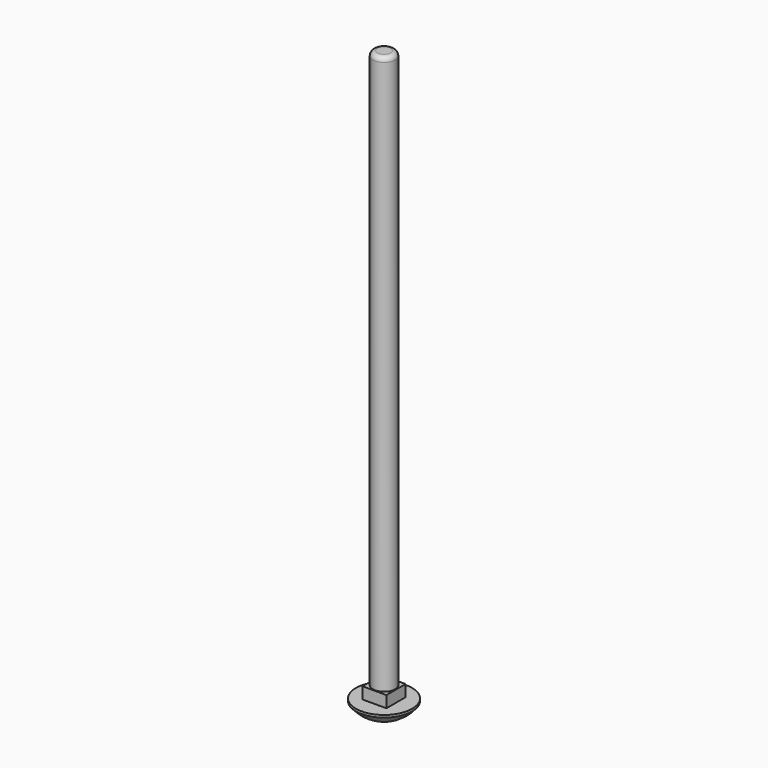
from build123d import *

# Parameters (mm, degrees)
F0_R     = 3.048
F1_DEPTH = 152.4
F2_W     = 6.5278
F2_H     = 6.5278
F3_DEPTH = 3.175
F4_R     = 7.6835
F5_DEPTH = 0.635
F8_R     = 1.27


with BuildPart() as f1:
    # F0 (on Top) → F1 (new body)
    with BuildSketch(Plane.XY):
        Circle(F0_R)
    extrude(amount=F1_DEPTH)

    # F2 (on Top) → F3 (join)
    with BuildSketch(Plane.XY):
        Rectangle(F2_W, F2_H)
    extrude(amount=-F3_DEPTH)

    # F4 (on face) → F5 (join)
    with BuildSketch(Plane(origin=(0, 0, -3.175), x_dir=(1, 0, 0), z_dir=(0, 0, -1))):
        Circle(F4_R)
    extrude(amount=F5_DEPTH)

    # F6 (on Front) → F7 (revolve)
    with BuildSketch(Plane.XZ):
        with BuildLine():
            Line((0, -3.81), (0, -7.62))
            ThreePointArc((0, -7.62), (4.288131, -6.615202), (7.6835, -3.81))
            Line((7.6835, -3.81), (0, -3.81))
        make_face()
    revolve(axis=Axis((0, 0, -5.715), (0, 0, -1)))

    # F8
    f8_edges = [f1.edges().sort_by_distance(p)[0] for p in [
        (-3.048, 0, 152.4),
    ]]
    fillet(f8_edges, radius=F8_R)


solid = f1.part
